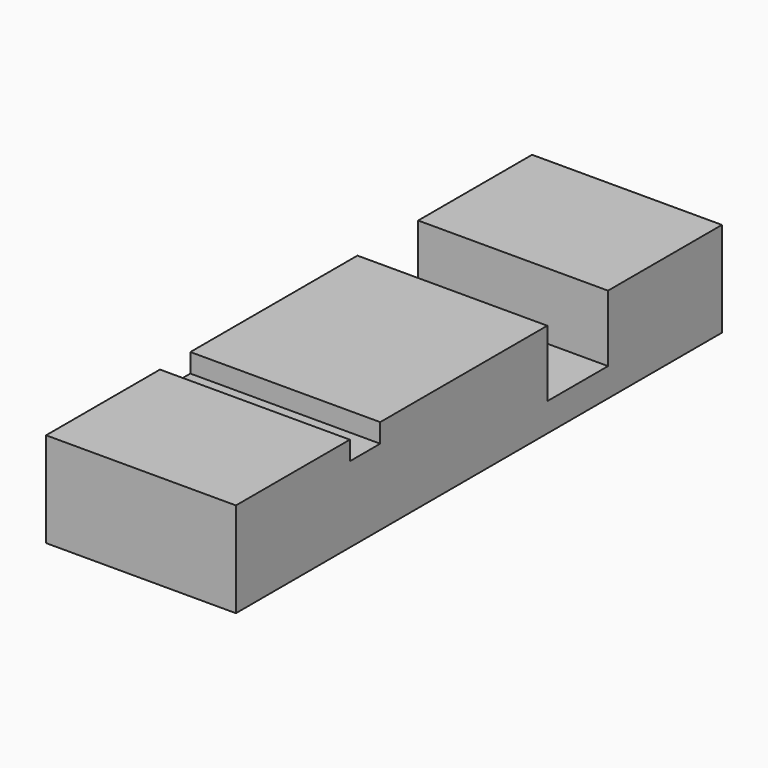
from build123d import *

# Parameters (mm, degrees)
F0_W     = 40
F0_H     = 30
F1_DEPTH = 100


with BuildPart() as f1:
    # F0 (on Right) → F1 (new body, symmetric)
    with BuildSketch(Plane.YZ):
        Polygon((-170, 50), (-320, 50), (-320, -50), (90, -50), (90, -20), (90, 50), (-130, 50), (-130, 30), (-170, 30), align=None)
        with Locations((110, -35)):
            Rectangle(F0_W, F0_H)
        with Locations((150, -35)):
            Rectangle(F0_W, F0_H)
        Polygon((170, -20), (170, -50), (320, -50), (320, 50), (170, 50), align=None)
    extrude(amount=F1_DEPTH, both=True)


solid = f1.part
